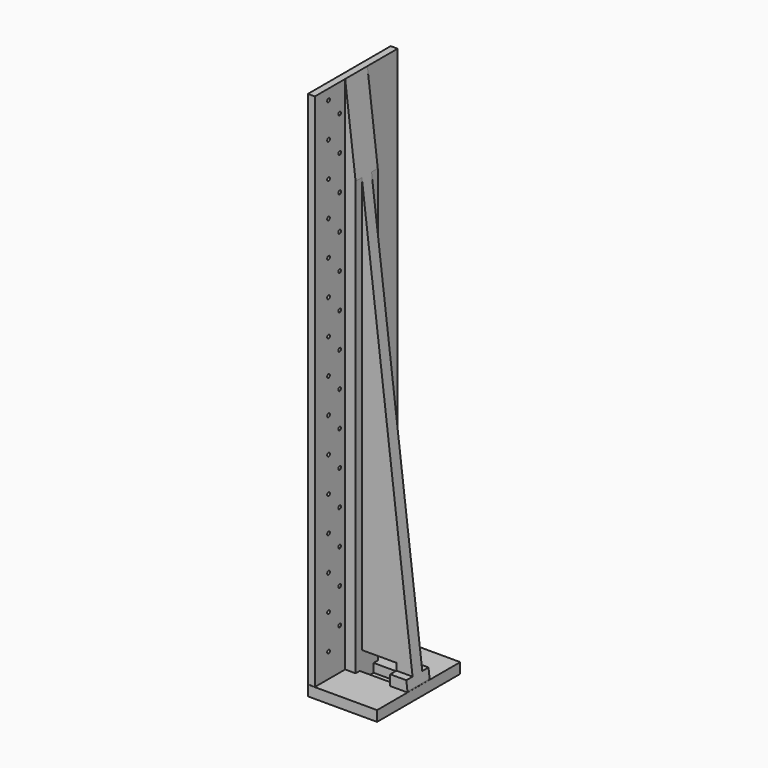
from build123d import *

# Parameters (mm, degrees)
SKETCH_W               = 20
SKETCH_H               = 30
PAD_DEPTH              = 3
SKETCH001_W            = 2
SKETCH001_H            = 29.849984
PAD001_DEPTH           = 150
PAD002_DEPTH           = 150
POCKET_DEPTH           = 8
POCKET001_DEPTH        = 2.25
POCKET002_DEPTH        = 2.25
SKETCH008_W            = 10
SKETCH008_H            = 5
POCKET003_DEPTH        = 2.5
SKETCH009_W            = 10
SKETCH009_H            = 10
POCKET004_DEPTH        = 5
SKETCH010_W            = 1
SKETCH010_H            = 150.25
POCKET005_DEPTH        = 1
SKETCH011_W            = 5
SKETCH011_H            = 0.5
POCKET006_DEPTH        = 1
LINEARPATTERN_COUNT    = 16
LINEARPATTERN_PITCH    = 10
SKETCH012_W            = 2.5
SKETCH012_H            = 0.5
POCKET007_DEPTH        = 1
LINEARPATTERN001_COUNT = 15
LINEARPATTERN001_PITCH = 10
SKETCH013_R            = 0.5
POCKET008_DEPTH        = 5
LINEARPATTERN002_COUNT = 15
LINEARPATTERN002_PITCH = 10
SKETCH014_R            = 0.5
POCKET009_DEPTH        = 5
LINEARPATTERN003_COUNT = 14
LINEARPATTERN003_PITCH = 10


with BuildPart() as part:
    # Sketch → Pad (new body)
    with BuildSketch(Plane.XY):
        Rectangle(SKETCH_W, SKETCH_H)
    extrude(amount=PAD_DEPTH)

    # Sketch001 (on Face6 of Pad) → Pad001 (join)
    with BuildSketch(Plane.XY.offset(3)):
        with Locations((-9, 0)):
            Rectangle(SKETCH001_W, SKETCH001_H)
    extrude(amount=PAD001_DEPTH)

    # Sketch003 (on Face5 of Pad001) → Pad002 (join)
    with BuildSketch(Plane.XY.offset(3)):
        Polygon((-8.02879, 4), (9.97121, 4), (9.97121, -4), (-8.007794, -4), align=None)
    extrude(amount=PAD002_DEPTH)

    # Sketch005 (on Face10 of Pad002) → Pocket (cut)
    with BuildSketch(Plane.XZ.offset(4)):
        Polygon((-8, 153), (10, 153), (10, 3), align=None)
    extrude(amount=-POCKET_DEPTH, mode=Mode.SUBTRACT)

    # Sketch006 (on Face10 of Pocket) → Pocket001 (cut)
    with BuildSketch(Plane.XZ.offset(4)):
        Polygon((-5, 140), (-5, 6), (15, 6), align=None)
    extrude(amount=-POCKET001_DEPTH, mode=Mode.SUBTRACT)

    # Sketch007 (on Face12 of Pocket001) → Pocket002 (cut)
    with BuildSketch(Plane(origin=(0, 4, 0), x_dir=(-1, 0, 0), z_dir=(0, 1, 0))):
        Polygon((-13, 6), (5, 6), (5, 150), align=None)
    extrude(amount=-POCKET002_DEPTH, mode=Mode.SUBTRACT)

    # Sketch008 (on Face5 of Pocket002) → Pocket003 (cut)
    with BuildSketch(Plane.XY.offset(3)):
        Rectangle(SKETCH008_W, SKETCH008_H)
    extrude(amount=-POCKET003_DEPTH, mode=Mode.SUBTRACT)

    # Sketch009 (on Face5 of Pocket003) → Pocket004 (cut)
    with BuildSketch(Plane.XY.offset(3)):
        Rectangle(SKETCH009_W, SKETCH009_H)
    extrude(amount=POCKET004_DEPTH, mode=Mode.SUBTRACT)

    # Sketch010 (on Face3 of Pocket004) → Pocket005 (cut)
    with BuildSketch(Plane(origin=(-10, 0, 0), x_dir=(0, -1, 0), z_dir=(-1, 0, 0))):
        with Locations((-9.5, 75.125)):
            Rectangle(SKETCH010_W, SKETCH010_H)
    extrude(amount=-POCKET005_DEPTH, mode=Mode.SUBTRACT)

    # Sketch011 (on Face8 of Pocket005) → Pocket006 (cut)
    with BuildSketch(Plane(origin=(-10, 0, 0), x_dir=(0, -1, 0), z_dir=(-1, 0, 0))):
        with Locations((-7, 0)):
            Rectangle(SKETCH011_W, SKETCH011_H)
    pocket006 = extrude(amount=-POCKET006_DEPTH, mode=Mode.SUBTRACT)

    # LinearPattern: Pocket006 ×16
    with Locations(*[(0, 0, i * LINEARPATTERN_PITCH) for i in range(1, LINEARPATTERN_COUNT)]):
        add(pocket006, mode=Mode.SUBTRACT)

    # Sketch012 (on Face8 of LinearPattern) → Pocket007 (cut)
    with BuildSketch(Plane(origin=(-10, 0, 0), x_dir=(0, -1, 0), z_dir=(-1, 0, 0))):
        with Locations((-8.25, 5)):
            Rectangle(SKETCH012_W, SKETCH012_H)
    pocket007 = extrude(amount=-POCKET007_DEPTH, mode=Mode.SUBTRACT)

    # LinearPattern001: Pocket007 ×15
    with Locations(*[(0, 0, i * LINEARPATTERN001_PITCH) for i in range(1, LINEARPATTERN001_COUNT)]):
        add(pocket007, mode=Mode.SUBTRACT)

    # Sketch013 (on Face8 of LinearPattern001) → Pocket008 (cut)
    with BuildSketch(Plane(origin=(-10, 0, 0), x_dir=(0, -1, 0), z_dir=(-1, 0, 0))):
        with Locations((10, 10)):
            Circle(SKETCH013_R)
    pocket008 = extrude(amount=-POCKET008_DEPTH, mode=Mode.SUBTRACT)

    # LinearPattern002: Pocket008 ×15
    with Locations(*[(0, 0, i * LINEARPATTERN002_PITCH) for i in range(1, LINEARPATTERN002_COUNT)]):
        add(pocket008, mode=Mode.SUBTRACT)

    # Sketch014 (on Face8 of LinearPattern002) → Pocket009 (cut)
    with BuildSketch(Plane(origin=(-10, 0, 0), x_dir=(0, -1, 0), z_dir=(-1, 0, 0))):
        with Locations((6, 15)):
            Circle(SKETCH014_R)
    pocket009 = extrude(amount=-POCKET009_DEPTH, mode=Mode.SUBTRACT)

    # LinearPattern003: Pocket009 ×14
    with Locations(*[(0, 0, i * LINEARPATTERN003_PITCH) for i in range(1, LINEARPATTERN003_COUNT)]):
        add(pocket009, mode=Mode.SUBTRACT)


solid = part.part
